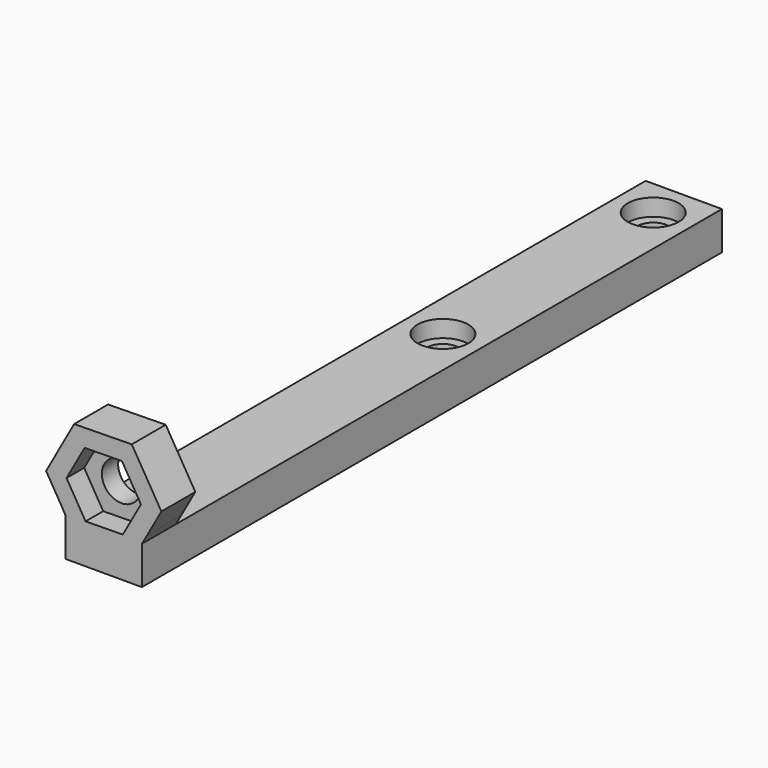
from build123d import *

# Parameters (mm, degrees)
F0_W     = 9
F0_H     = 85.5
F0_R     = 1.85
F1_DEPTH = 4.5
F2_R     = 2.3
F3_DEPTH = 5
F4_R     = 2.3
F5_DEPTH = 2.6
F6_R     = 3
F6_R_2   = 1.85
F7_DEPTH = 2


with BuildPart() as f1:
    # F0 (on Top) → F1 (new body)
    with BuildSketch(Plane.XY):
        Rectangle(F0_W, F0_H)
        with Locations((0, 7.25)):
            Circle(F0_R, mode=Mode.SUBTRACT)
        with Locations((0, 38.25)):
            Circle(F0_R, mode=Mode.SUBTRACT)
    extrude(amount=F1_DEPTH)

    # F2 (on face) → F3 (join)
    with BuildSketch(Plane.XZ.offset(42.75)):
        Polygon((5.144893, 5.634928), (6.799043, 8.605333), (3.3083, 14.44081), (-3.490743, 14.335477), (-6.799043, 8.394667), (-5.053671, 5.476928), (-4.5, 4.5), (4.5, 4.5), align=None)
        with Locations((0, 8.5)):
            Circle(F2_R, mode=Mode.SUBTRACT)
    extrude(amount=-F3_DEPTH)

    # F4 (on face) → F5 (cut)
    with BuildSketch(Plane.XZ.offset(42.75)):
        Polygon((4.387461, 8.559325), (2.142354, 12.329315), (-2.245107, 12.26999), (-4.387461, 8.440675), (-2.142354, 4.670685), (2.245107, 4.73001), align=None)
        with Locations((0, 8.5)):
            Circle(F4_R, mode=Mode.SUBTRACT)
    extrude(amount=-F5_DEPTH, mode=Mode.SUBTRACT)

    # F6 (on face) → F7 (cut)
    with BuildSketch(Plane.XY.offset(4.5)):
        with Locations((0, 38.25)):
            Circle(F6_R)
        with Locations((0, 38.25)):
            Circle(F6_R_2, mode=Mode.SUBTRACT)
        with Locations((0, 7.25)):
            Circle(F6_R)
        with Locations((0, 7.25)):
            Circle(F6_R_2, mode=Mode.SUBTRACT)
    extrude(amount=-F7_DEPTH, mode=Mode.SUBTRACT)


solid = f1.part
